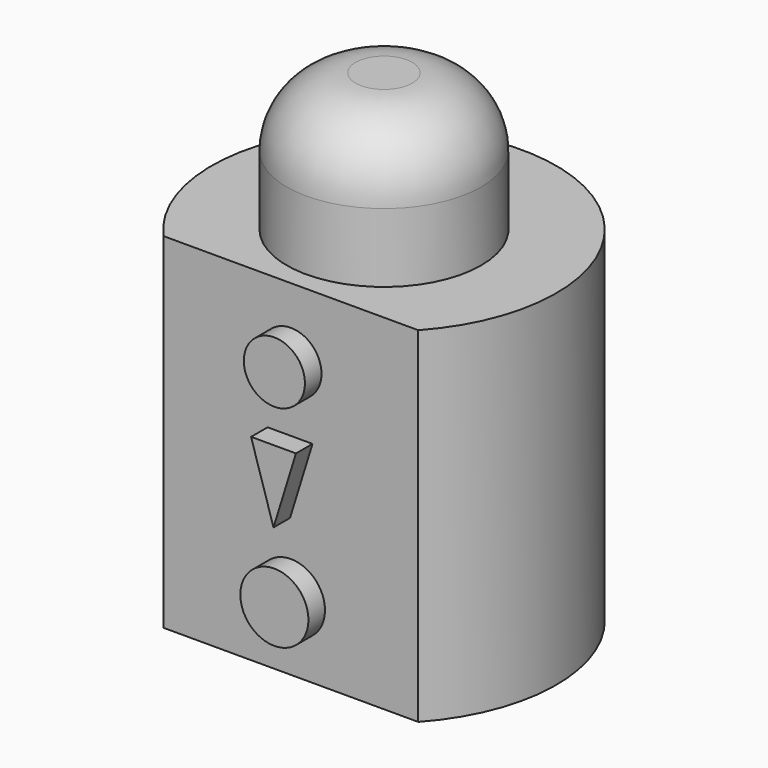
from build123d import *

# Parameters (mm, degrees)
F1_DEPTH  = 12.7
F2_R      = 3.581061
F3_DEPTH  = 5.08
F4_R      = 2.54
F5_R      = 1.125385
F6_DEPTH  = 0.762
F7_R      = 1.253992
F8_DEPTH  = 0.762
F10_DEPTH = 0.762


with BuildPart() as f1:
    # F0 (on Top) → F1 (new body)
    with BuildSketch(Plane.XY):
        with BuildLine():
            Line((-4.688413, -4.282672), (4.688413, -4.282672))
            ThreePointArc((4.688413, -4.282672), (0, 6.35), (-4.688413, -4.282672))
        make_face()
    extrude(amount=F1_DEPTH)


with BuildPart() as f3:
    # F2 (on face) → F3 (new body)
    with BuildSketch(Plane.XY.offset(12.7)):
        Circle(F2_R)
    extrude(amount=F3_DEPTH)

    # F4
    f4_edges = [f3.edges().sort_by_distance(p)[0] for p in [
        (-3.581061, 0, 17.78),
    ]]
    fillet(f4_edges, radius=F4_R)


with BuildPart() as f6:
    # F5 (on face) → F6 (new body)
    with BuildSketch(Plane.XZ.offset(4.282672)):
        with Locations((0, 10.127603)):
            Circle(F5_R)
    extrude(amount=F6_DEPTH)


with BuildPart() as f8:
    # F7 (on face) → F8 (new body)
    with BuildSketch(Plane.XZ.offset(4.282672)):
        with Locations((0, 2.503417)):
            Circle(F7_R)
    extrude(amount=F8_DEPTH)


with BuildPart() as f10:
    # F9 (on face) → F10 (new body)
    with BuildSketch(Plane.XZ.offset(4.282672)):
        Polygon((0.794749, 7.748757), (-0.858327, 7.748757), (-0.031789, 5.078404), align=None)
    extrude(amount=F10_DEPTH)


solid = Compound([f1.part, f3.part, f6.part, f8.part, f10.part])
